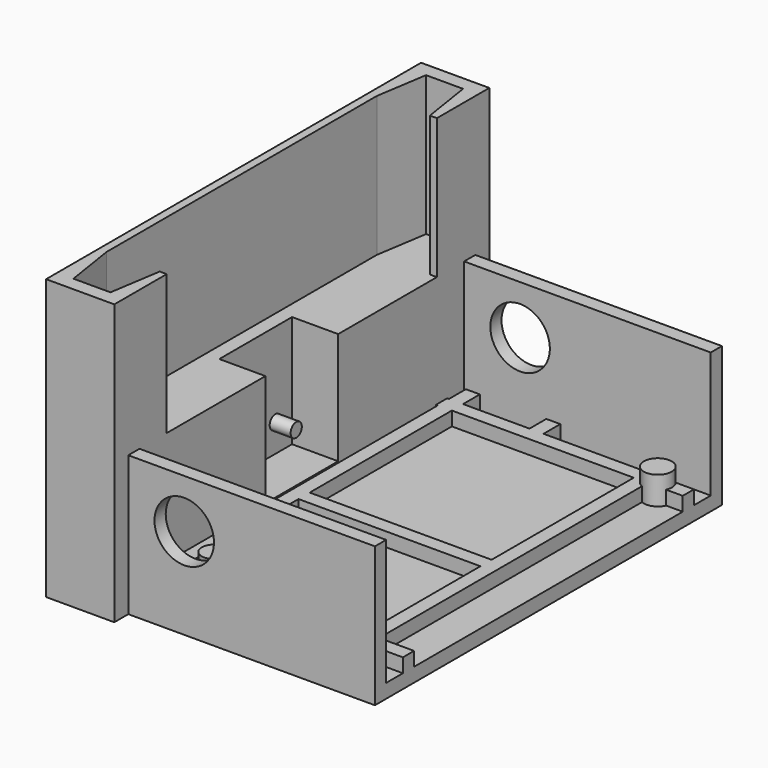
from build123d import *

# Parameters (mm, degrees)
F0_W      = 45
F0_H      = 62
F1_DEPTH  = 2
F2_W      = 10
F2_H      = 2
F2_W_2    = 2
F2_H_2    = 5
F2_W_3    = 9.5
F2_H_3    = 48
F2_W_4    = 14.5
F2_W_5    = 5
F3_DEPTH  = 2
F4_R      = 1.75
F5_DEPTH  = 6
F4_R_2    = 2
F6_W      = 26
F6_H      = 2
F7_DEPTH  = 2
F8_W      = 45
F8_H      = 2
F9_DEPTH  = 20
F10_W     = 9.75
F10_H     = 67
F11_DEPTH = 40
F12_W     = 1
F12_H     = 48.2785870243
F13_DEPTH = 20
F14_W     = 6.592
F14_H     = 13
F15_DEPTH = 16
F16_R     = 4.25
F17_DEPTH = 70
F18_R     = 1
F19_DEPTH = 3


with BuildPart() as f1:
    # F0 (on Top) → F1 (new body)
    with BuildSketch(Plane.XY):
        with Locations((-10.2621772885, -32.0573406816)):
            Rectangle(F0_W, F0_H)
    extrude(amount=F1_DEPTH)

    # F2 (on face) → F3 (join)
    with BuildSketch(Plane.XY.offset(2)):
        with Locations((-27.7621772885, -57.0573406816)):
            Rectangle(F2_W, F2_H)
        with Locations((-21.7621772885, -57.0573406816)):
            Rectangle(F2_W_2, F2_H)
        with Locations((-21.7621772885, -60.5573406816)):
            Rectangle(F2_W_2, F2_H_2)
        with Locations((-16.0121772885, -57.0573406816)):
            Rectangle(F2_W_3, F2_H)
        with Locations((-21.7621772885, -32.0573406816)):
            Rectangle(F2_W_2, F2_H_3)
        with Locations((-10.2621772885, -57.0573406816)):
            Rectangle(F2_W_2, F2_H)
        with Locations((-10.2621772885, -60.5573406816)):
            Rectangle(F2_W_2, F2_H_2)
        with Locations((-27.7621772885, -7.0573406816)):
            Rectangle(F2_W, F2_H)
        with Locations((-21.7621772885, -7.0573406816)):
            Rectangle(F2_W_2, F2_H)
        with Locations((-2.0121772885, -57.0573406816)):
            Rectangle(F2_W_4, F2_H)
        with Locations((-16.0121772885, -7.0573406816)):
            Rectangle(F2_W_3, F2_H)
        with Locations((-21.7621772885, -3.5573406816)):
            Rectangle(F2_W_2, F2_H_2)
        with Locations((6.2378227115, -57.0573406816)):
            Rectangle(F2_W_2, F2_H)
        with Locations((6.2378227115, -60.5573406816)):
            Rectangle(F2_W_2, F2_H_2)
        with Locations((-10.2621772885, -7.0573406816)):
            Rectangle(F2_W_2, F2_H)
        with Locations((9.7378227115, -57.0573406816)):
            Rectangle(F2_W_5, F2_H)
        with Locations((6.2378227115, -32.0573406816)):
            Rectangle(F2_W_2, F2_H_3)
        with Locations((-2.0121772885, -7.0573406816)):
            Rectangle(F2_W_4, F2_H)
        with Locations((-10.2621772885, -3.5573406816)):
            Rectangle(F2_W_2, F2_H_2)
        with Locations((6.2378227115, -7.0573406816)):
            Rectangle(F2_W_2, F2_H)
        with Locations((9.7378227115, -7.0573406816)):
            Rectangle(F2_W_5, F2_H)
        with Locations((6.2378227115, -3.5573406816)):
            Rectangle(F2_W_2, F2_H_2)
    extrude(amount=F3_DEPTH)

    # F6 (on face) → F7 (join)
    with BuildSketch(Plane.XY.offset(2)):
        with Locations((-7.7621772885, -34.4568399489)):
            Rectangle(F6_W, F6_H)
    extrude(amount=F7_DEPTH)

    # F8 (on face) → F9 (join)
    with BuildSketch(Plane(origin=(0, 0, 0), x_dir=(1, 0, 0), z_dir=(0, 0, -1))):
        with Locations((-10.2621772885, 62.0573406816)):
            Rectangle(F8_W, F8_H)
        with Locations((-10.2621772885, 2.0573406816)):
            Rectangle(F8_W, F8_H)
    extrude(amount=-F9_DEPTH)

    # F10 (on face) → F11 (join)
    with BuildSketch(Plane(origin=(0, 0, 0), x_dir=(1, 0, 0), z_dir=(0, 0, -1))):
        with Locations((-27.8871772885, 32.0573406816)):
            Rectangle(F10_W, F10_H)
    extrude(amount=-F11_DEPTH)

    # F12 (on face) → F13 (cut)
    with BuildSketch(Plane.XY.offset(40)):
        Polygon((-31.6041772885, -7.9180471694), (-31.6041772885, -56.1966341937), (-30.4541772885, -63.5573406816), (-25.1621772885, -63.5573406816), (-24.0121772885, -56.1966341937), (-24.0121772885, -7.9180471694), (-25.1621772885, -0.5573406816), (-30.4541772885, -0.5573406816), align=None)
        with Locations((-23.5121772885, -32.0573406816)):
            Rectangle(F12_W, F12_H)
    extrude(amount=-F13_DEPTH, mode=Mode.SUBTRACT)

    # F14 (on face) → F15 (cut)
    with BuildSketch(Plane.XY.offset(20)):
        with Locations((-26.3081772885, -32.0573406816)):
            Rectangle(F14_W, F14_H)
    extrude(amount=-F15_DEPTH, mode=Mode.SUBTRACT)

    # F16 (on face) → F17 (cut)
    with BuildSketch(Plane(origin=(0, -1.0573406816, 0), x_dir=(-1, 0, 0), z_dir=(0, 1, 0))):
        with Locations((15.0121772885, 13)):
            Circle(F16_R)
    extrude(amount=-F17_DEPTH, mode=Mode.SUBTRACT)

    # F18 (on face) → F19 (join)
    with BuildSketch(Plane.YZ.offset(-29.6041772885)):
        with Locations((-35.5573406816, 8)):
            Circle(F18_R)
        with Locations((-28.5573406816, 8)):
            Circle(F18_R)
    extrude(amount=F19_DEPTH)


with BuildPart() as f5:
    # F4 (on face) → F5 (new body)
    with BuildSketch(Plane(origin=(0, 0, 0), x_dir=(1, 0, 0), z_dir=(0, 0, -1))):
        with Locations((-17.7621772885, 54.3073406816)):
            Circle(F4_R)
    extrude(amount=-F5_DEPTH)


with BuildPart() as f5b:
    # F4 (on face) → F5, piece 2 (new body)
    with BuildSketch(Plane(origin=(0, 0, 0), x_dir=(1, 0, 0), z_dir=(0, 0, -1))):
        with Locations((8.0378227115, 7.2573406816)):
            Circle(F4_R_2)
    extrude(amount=-F5_DEPTH)


solid = Compound([f1.part, f5.part, f5b.part])
